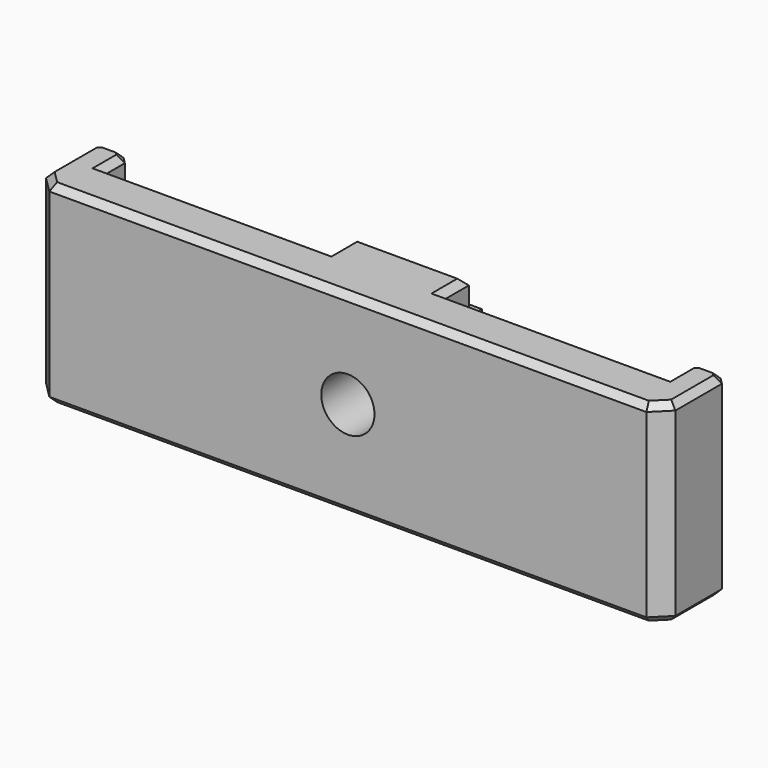
from build123d import *

# Parameters (mm, degrees)
CYLINDER002_R     = 1.65
CYLINDER002_DEPTH = 10
BOX005_W          = 7
BOX005_H          = 5
BOX005_DEPTH      = 12
BOX006_W          = 14
BOX006_H          = 3
BOX006_DEPTH      = 12
BOX007_W          = 2
BOX007_H          = 5
BOX007_DEPTH      = 12
BOX008_W          = 14
BOX008_H          = 3
BOX008_DEPTH      = 12
BOX009_W          = 2
BOX009_H          = 5
BOX009_DEPTH      = 12
BOX010_W          = 7
BOX010_H          = 2
BOX010_DEPTH      = 7.8
CHAMFER006_SIZE   = 1
CHAMFER007_SIZE   = 0.4
CHAMFER008_SIZE   = 0.4


with BuildPart() as cylinder002:
    # Cylinder002 → Cylinder002 (new body)
    with BuildSketch(Plane(origin=(0, 0, 6), x_dir=(1, 0, 0), z_dir=(0, 1, 0))):
        Circle(CYLINDER002_R)
    extrude(amount=CYLINDER002_DEPTH)


with BuildPart() as cube005:
    # Box005 → Box005 (new body)
    with BuildSketch(Plane(origin=(-3.5, 0, 0), x_dir=(1, 0, 0), z_dir=(0, 0, 1))):
        with Locations((3.5, 2.5)):
            Rectangle(BOX005_W, BOX005_H)
    extrude(amount=BOX005_DEPTH)


with BuildPart() as cube006:
    # Box006 → Box006 (new body)
    with BuildSketch(Plane(origin=(3.5, 0, 0), x_dir=(1, 0, 0), z_dir=(0, 0, 1))):
        with Locations((7, 1.5)):
            Rectangle(BOX006_W, BOX006_H)
    extrude(amount=BOX006_DEPTH)


with BuildPart() as cube007:
    # Box007 → Box007 (new body)
    with BuildSketch(Plane(origin=(17.5, 0, 0), x_dir=(1, 0, 0), z_dir=(0, 0, 1))):
        with Locations((1, 2.5)):
            Rectangle(BOX007_W, BOX007_H)
    extrude(amount=BOX007_DEPTH)


with BuildPart() as cube008:
    # Box008 → Box008 (new body)
    with BuildSketch(Plane(origin=(-17.5, 0, 0), x_dir=(1, 0, 0), z_dir=(0, 0, 1))):
        with Locations((7, 1.5)):
            Rectangle(BOX008_W, BOX008_H)
    extrude(amount=BOX008_DEPTH)


with BuildPart() as cube009:
    # Box009 → Box009 (new body)
    with BuildSketch(Plane(origin=(-19.5, 0, 0), x_dir=(1, 0, 0), z_dir=(0, 0, 1))):
        with Locations((1, 2.5)):
            Rectangle(BOX009_W, BOX009_H)
    extrude(amount=BOX009_DEPTH)


with BuildPart() as chamfer008:
    # Box010 → Box010 (new body)
    with BuildSketch(Plane(origin=(-3.5, 4, 2.1), x_dir=(1, 0, 0), z_dir=(0, 0, 1))):
        with Locations((3.5, 1)):
            Rectangle(BOX010_W, BOX010_H)
    extrude(amount=BOX010_DEPTH)

    # Fusion003: union Cube005, Cube006, Cube007, Cube008, Cube009
    add(cube005.part)
    add(cube006.part)
    add(cube007.part)
    add(cube008.part)
    add(cube009.part)

    # Cut003: cut Cylinder002
    add(cylinder002.part, mode=Mode.SUBTRACT)

    # Chamfer006
    chamfer006_edges = [chamfer008.edges().sort_by_distance(p)[0] for p in [
        (-19.5, 0, 6),
        (19.5, 0, 6),
    ]]
    chamfer(chamfer006_edges, length=CHAMFER006_SIZE)

    # Chamfer007
    chamfer007_edges = [chamfer008.edges().sort_by_distance(p)[0] for p in [
        (-19.5, 5, 6),
        (-17.5, 5, 6),
        (19.5, 5, 6),
        (17.5, 5, 6),
    ]]
    chamfer(chamfer007_edges, length=CHAMFER007_SIZE)

    # Chamfer008
    chamfer008_edges = [chamfer008.edges().sort_by_distance(p)[0] for p in [
        (-19.5, 2.8, 12),
        (-19.5, 2.8, 0),
        (-19, 0.5, 12),
        (0, 0, 12),
        (19, 0.5, 12),
        (19.5, 2.8, 12),
        (19.3, 4.8, 12),
        (18.5, 5, 12),
        (17.7, 4.8, 12),
        (17.5, 3.8, 12),
        (10.5, 3, 12),
        (3.5, 4, 12),
        (0, 5, 12),
        (-3.5, 4, 12),
        (-10.5, 3, 12),
        (-17.5, 3.8, 12),
        (-17.7, 4.8, 12),
        (-18.5, 5, 12),
        (-19.3, 4.8, 12),
        (-19.3, 4.8, 0),
        (-19, 0.5, 0),
        (19.5, 2.8, 0),
        (19, 0.5, 0),
        (0, 0, 0),
        (-18.5, 5, 0),
        (-17.7, 4.8, 0),
        (-17.5, 3.8, 0),
        (-10.5, 3, 0),
        (-3.5, 4, 0),
        (0, 5, 0),
        (3.5, 4, 0),
        (10.5, 3, 0),
        (17.5, 3.8, 0),
        (17.7, 4.8, 0),
        (18.5, 5, 0),
        (19.3, 4.8, 0),
    ]]
    chamfer(chamfer008_edges, length=CHAMFER008_SIZE)


solid = chamfer008.part
